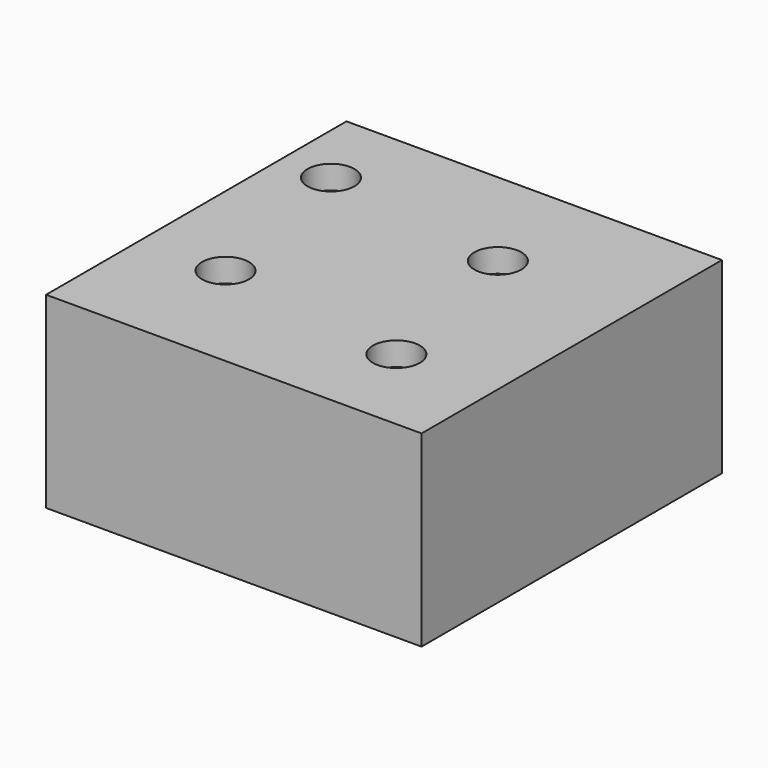
from build123d import *

# Parameters (mm, degrees)
F0_W           = 101.6
F0_H           = 50.8
F1_DEPTH       = 50.8
F3_D           = 6.35
F3_DEPTH       = 12.7
F3_CBORE_D     = 12.7
F3_CBORE_DEPTH = 6.35
F3_TIP         = 1.9077324654


with BuildPart() as f1:
    # F0 (on Front) → F1 (new body, symmetric)
    with BuildSketch(Plane.XZ):
        with Locations((-0.0916495919, -26.241390319)):
            Rectangle(F0_W, F0_H)
    extrude(amount=F1_DEPTH, both=True)

    # F3
    with Locations(Plane.XY.offset(-0.841390319)):
        with Locations((-37.3544506729, 28.6398008466), (13.9931961894, 20.9090746939), (23.9215306938, -25.8167721331), (-28.163805604, -18.5119509697)):
            CounterBoreHole(F3_D / 2, F3_CBORE_D / 2, F3_CBORE_DEPTH, depth=F3_DEPTH)
            with Locations((0, 0, -(F3_DEPTH + F3_TIP / 2))):  # 118° drill point
                Cone(0, F3_D / 2, F3_TIP, mode=Mode.SUBTRACT)


solid = f1.part
